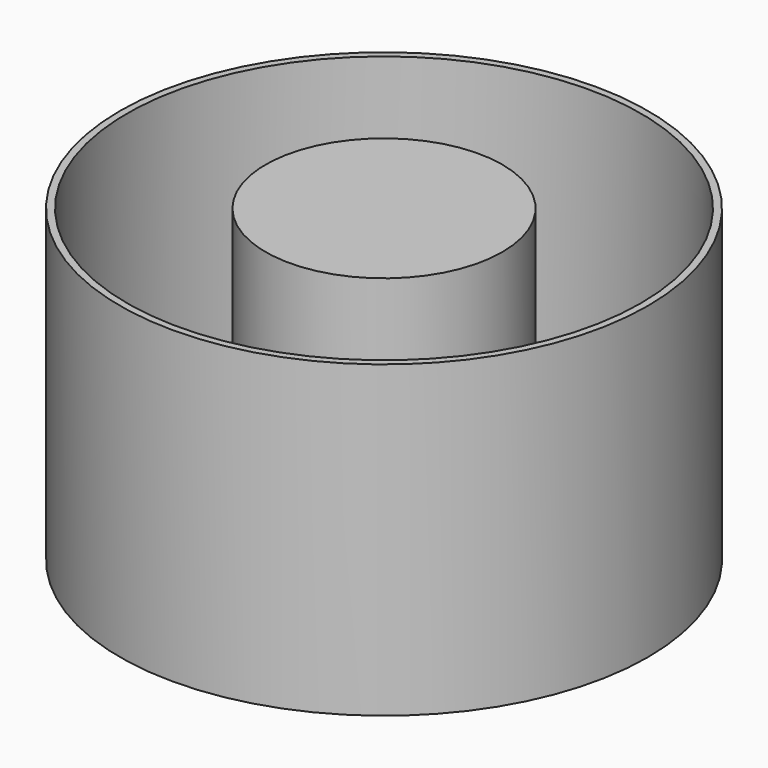
from build123d import *

# Parameters (mm, degrees)
SKETCH_R     = 51
PAD_DEPTH    = 60
THICKNESS_T  = 1.4
SKETCH001_R  = 23.5
PAD001_DEPTH = 60


with BuildPart() as part:
    # Sketch → Pad (new body)
    with BuildSketch(Plane.XY):
        Circle(SKETCH_R)
    extrude(amount=PAD_DEPTH)

    # Thickness
    thickness_openings = [part.faces().sort_by_distance(p)[0] for p in [
        (0, 0, 60),
    ]]
    offset(amount=THICKNESS_T, openings=thickness_openings, kind=Kind.INTERSECTION)

    # Sketch001 (on Face2 of Thickness) → Pad001 (join)
    with BuildSketch(Plane.XY):
        Circle(SKETCH001_R)
    extrude(amount=PAD001_DEPTH)


solid = part.part
